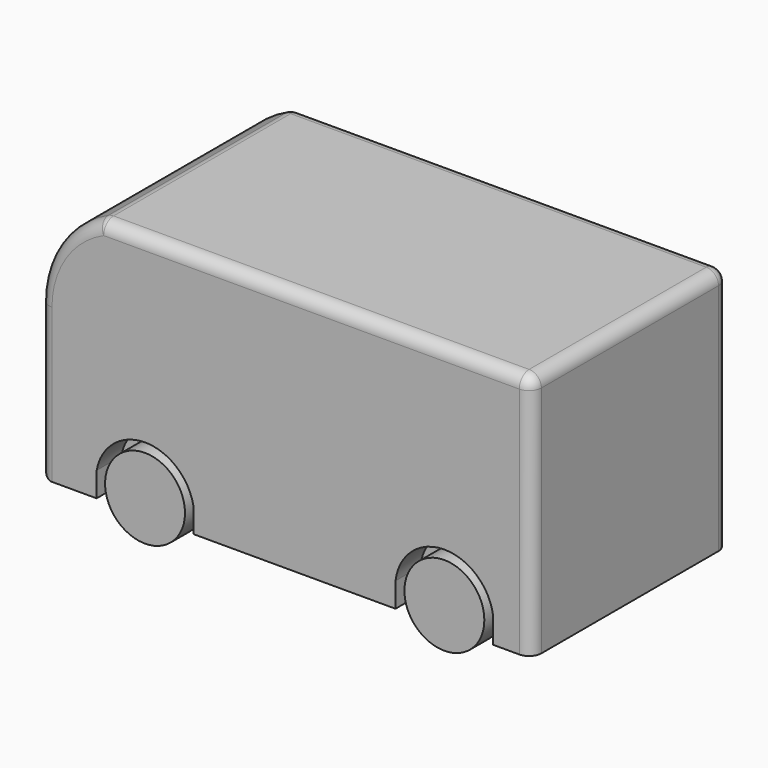
from build123d import *

# Parameters (mm, degrees)
F1_DEPTH  = 101.6
F2_R      = 5.08
F3_R      = 5.08
F4_DEPTH  = 12.7
F5_DEPTH  = 101.6
F7_DEPTH  = 12.7
F8_R      = 4.445
F9_DEPTH  = 101.6
F10_DEPTH = 101.6
F11_R     = 16.51
F12_DEPTH = 10.16
F13_R     = 16.51
F14_DEPTH = 10.16


with BuildPart() as f1:
    # F0 (on Front) → F1 (new body)
    with BuildSketch(Plane.XZ):
        with BuildLine():
            Line((58.5069581866, -50.8), (58.5069581866, 0))
            Line((58.5069581866, 0), (58.5069581866, 50.8))
            Line((58.5069581866, 50.8), (-119.2930418134, 50.8))
            ThreePointArc((-119.2930418134, 50.8), (-137.7609177122, 35.5952505992), (-144.6930418134, 12.7))
            Line((-144.6930418134, 12.7), (-144.6930418134, -50.8))
            Line((-144.6930418134, -50.8), (58.5069581866, -50.8))
        make_face()
    extrude(amount=F1_DEPTH)

    # F2
    f2_edges = [f1.edges().sort_by_distance(p)[0] for p in [
        (-30.393042, 0, 50.8),
        (-119.293042, -50.8, 50.8),
        (-137.760918, 0, 35.595251),
        (-144.693042, 0, -19.05),
        (-144.693042, -101.6, -19.05),
        (-137.760918, -101.6, 35.595251),
        (-30.393042, -101.6, 50.8),
        (58.506958, -50.8, 50.8),
        (58.506958, 0, 0),
        (58.506958, -101.6, 0),
        (-144.693042, -50.8, -50.8),
    ]]
    fillet(f2_edges, radius=F2_R)

    # F3 (on face) → F4 (cut)
    with BuildSketch(Plane.XZ.offset(101.6)):
        with BuildLine():
            Line((-121.1638599634, -40.64), (-121.1638599634, -50.8))
            Line((-121.1638599634, -50.8), (-81.1741036591, -50.8))
            Line((-81.1741036591, -50.8), (-81.1741036591, -40.64))
            ThreePointArc((-81.1741036591, -40.64), (-101.1689818113, -23.9403933046), (-121.1638599634, -40.64))
        make_face()
        with Locations((-101.1689818113, -44.2603933046)):
            Circle(F3_R, mode=Mode.SUBTRACT)
        with BuildLine():
            Line((2.304810565, -40.64), (2.304810565, -50.8))
            Line((2.304810565, -50.8), (42.6670909313, -50.8))
            Line((42.6670909313, -50.8), (42.6670909313, -40.64))
            ThreePointArc((42.6670909313, -40.64), (22.4859507481, -22.6914933917), (2.304810565, -40.64))
        make_face()
        with Locations((22.4859507481, -43.0114933917)):
            Circle(F3_R, mode=Mode.SUBTRACT)
    extrude(amount=-F4_DEPTH, mode=Mode.SUBTRACT)

    # F5 (cut): faces of the model
    f5_faces = [f1.faces().sort_by_distance(p)[0] for p in [
        (-101.1689818113, -101.6, -44.2603933046),
        (22.4859507481, -101.6, -43.0114933917),
    ]]
    extrude(f5_faces, amount=-F5_DEPTH, mode=Mode.SUBTRACT)

    # F6 (on face) → F7 (cut)
    with BuildSketch(Plane(origin=(0, 0, 0), x_dir=(-1, 0, 0), z_dir=(0, 1, 0))):
        with BuildLine():
            Line((-2.5926139206, -41.6983120407), (-17.5786139206, -41.6983120407))
            ThreePointArc((-17.5786139206, -41.6983120407), (-17.4493015106, -42.3492513982), (-17.4059507481, -43.0114933917))
            ThreePointArc((-17.4059507481, -43.0114933917), (-22.6701544481, -48.0881526276), (-27.5525920855, -42.6433282679))
            Line((-27.5525920855, -42.6433282679), (-42.5385920855, -42.6433282679))
            Line((-42.5385920855, -42.6433282679), (-42.5385920855, -50.8))
            Line((-42.5385920855, -50.8), (-2.5926139206, -50.8))
            Line((-2.5926139206, -50.8), (-2.5926139206, -41.6983120407))
        make_face()
        with BuildLine():
            Line((81.1054025969, -44.1035834766), (81.1054025969, -50.8))
            Line((81.1054025969, -50.8), (121.2298573264, -50.8))
            Line((121.2298573264, -50.8), (121.2298573264, -44.0322738067))
            Line((121.2298573264, -44.0322738067), (106.2438573264, -44.0322738067))
            ThreePointArc((106.2438573264, -44.0322738067), (106.2477005285, -44.1463047801), (106.2489818113, -44.2603933046))
            ThreePointArc((106.2489818113, -44.2603933046), (101.0905675549, -49.3397880722), (96.0914025969, -44.1035834766))
            Line((96.0914025969, -44.1035834766), (81.1054025969, -44.1035834766))
        make_face()
        with BuildLine():
            Line((81.1054025969, -40.64), (81.1054025969, -44.1035834766))
            Line((81.1054025969, -44.1035834766), (96.0914025969, -44.1035834766))
            ThreePointArc((96.0914025969, -44.1035834766), (101.1333013579, -39.1805186108), (106.2438573264, -44.0322738067))
            Line((106.2438573264, -44.0322738067), (121.2298573264, -44.0322738067))
            Line((121.2298573264, -44.0322738067), (121.2298573264, -40.64))
            ThreePointArc((121.2298573264, -40.64), (101.1676299617, -23.1976156262), (81.1054025969, -40.64))
        make_face()
        with BuildLine():
            ThreePointArc((-27.5525920855, -42.6433282679), (-22.9651254544, -37.9541431368), (-17.5786139206, -41.6983120407))
            Line((-17.5786139206, -41.6983120407), (-2.5926139206, -41.6983120407))
            Line((-2.5926139206, -41.6983120407), (-2.5926139206, -40.64))
            ThreePointArc((-2.5926139206, -40.64), (-22.565603003, -24.4518259035), (-42.5385920855, -40.64))
            Line((-42.5385920855, -40.64), (-42.5385920855, -42.6433282679))
            Line((-42.5385920855, -42.6433282679), (-27.5525920855, -42.6433282679))
        make_face()
    extrude(amount=-F7_DEPTH, mode=Mode.SUBTRACT)


with BuildPart() as f9:
    # F8 (on Front) → F9 (new body)
    with BuildSketch(Plane.XZ):
        with Locations((-101.3052612543, -44.6098931134)):
            Circle(F8_R)
    extrude(amount=F9_DEPTH)


with BuildPart() as f9b:
    # F8 (on Front) → F9, piece 2 (new body)
    with BuildSketch(Plane.XZ):
        with Locations((22.1634022892, -43.1708656251)):
            Circle(F8_R)
    extrude(amount=F9_DEPTH)


with BuildPart() as f10:
    # F8 (on Front) → F10 (new body)
    with BuildSketch(Plane.XZ):
        with Locations((-101.3052612543, -44.6098931134)):
            Circle(F8_R)
    extrude(amount=F10_DEPTH)


with BuildPart() as f10b:
    # F8 (on Front) → F10, piece 2 (new body)
    with BuildSketch(Plane.XZ):
        with Locations((22.1634022892, -43.1708656251)):
            Circle(F8_R)
    extrude(amount=F10_DEPTH)


with BuildPart() as f12:
    # F11 (on Front) → F12 (new body)
    with BuildSketch(Plane.XZ):
        with Locations((21.8755975366, -43.4586666524)):
            Circle(F11_R)
    extrude(amount=F12_DEPTH)


with BuildPart() as f12b:
    # F11 (on Front) → F12, piece 2 (new body)
    with BuildSketch(Plane.XZ):
        with Locations((-101.5930697322, -44.897697866)):
            Circle(F11_R)
    extrude(amount=F12_DEPTH)


with BuildPart() as f14:
    # F13 (on face) → F14 (new body)
    with BuildSketch(Plane.XZ.offset(101.6)):
        with Locations((-101.1689818113, -44.2603933046)):
            Circle(F13_R)
    extrude(amount=-F14_DEPTH)


with BuildPart() as f14b:
    # F13 (on face) → F14, piece 2 (new body)
    with BuildSketch(Plane.XZ.offset(101.6)):
        with Locations((22.4859507481, -43.0114933917)):
            Circle(F13_R)
    extrude(amount=-F14_DEPTH)


solid = Compound([f1.part, f9.part, f9b.part, f10.part, f10b.part, f12.part, f12b.part, f14.part, f14b.part])
